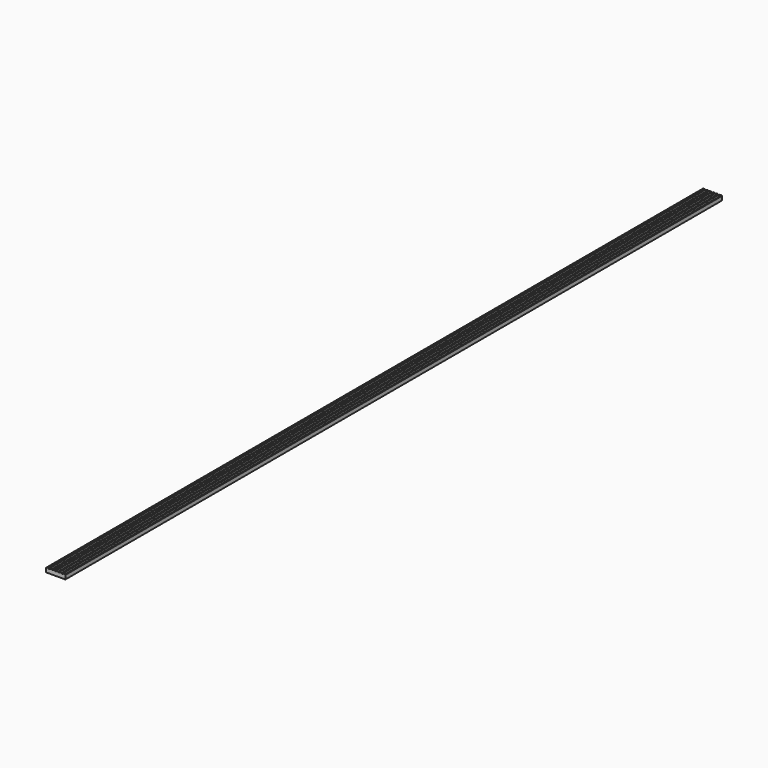
from build123d import *

# Parameters (mm, degrees)
F0_W     = 120
F0_H     = 5100
F1_DEPTH = 28
F2_SIZE  = 3
F4_DEPTH = 5100


with BuildPart() as f1:
    # F0 (on Top) → F1 (new body)
    with BuildSketch(Plane.XY):
        with Locations((-246.562249, 13.956866)):
            Rectangle(F0_W, F0_H)
    extrude(amount=F1_DEPTH)

    # F2
    f2_edges = [f1.edges().sort_by_distance(p)[0] for p in [
        (-306.562249, 13.956866, 28),
        (-186.562249, 13.956866, 28),
    ]]
    chamfer(f2_edges, length=F2_SIZE)

    # F3 (on face) → F4 (cut)
    with BuildSketch(Plane.XZ.offset(2536.043134)):
        Polygon((-282.562249, 28), (-293.562249, 28), (-290.562249, 25), (-285.562249, 25), align=None)
        Polygon((-262.562249, 28), (-272.562249, 28), (-269.562249, 25), (-265.562249, 25), align=None)
        Polygon((-241.562249, 28), (-252.562249, 28), (-249.562249, 25), (-244.562249, 25), align=None)
        Polygon((-223.562249, 25), (-220.562249, 28), (-231.562249, 28), (-228.562249, 25), align=None)
        Polygon((-202.562249, 25), (-199.562249, 28), (-210.562249, 28), (-207.562249, 25), align=None)
    extrude(amount=-F4_DEPTH, mode=Mode.SUBTRACT)


solid = f1.part
